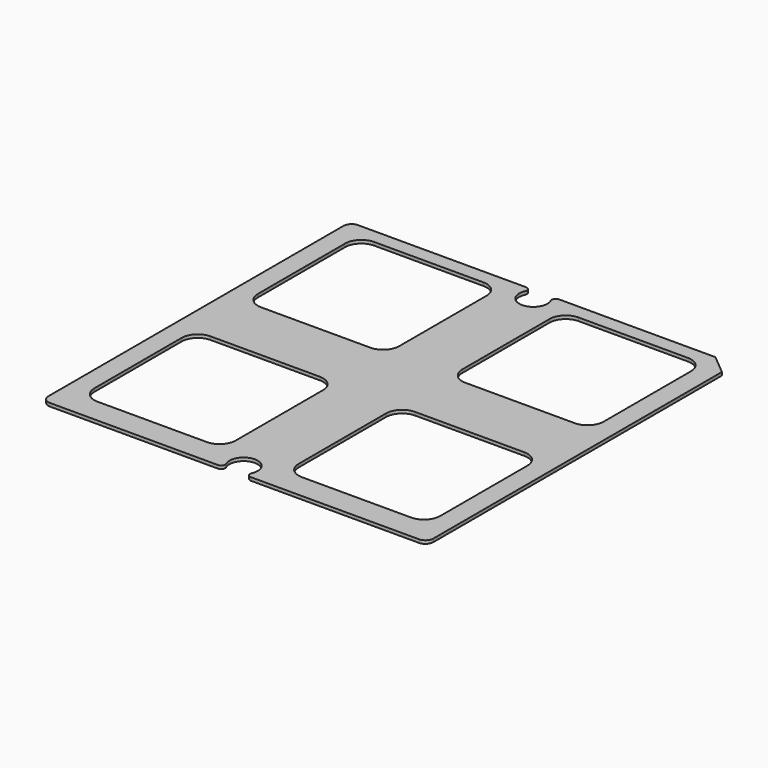
from build123d import *

# Parameters (mm, degrees)
F1_DEPTH = 0.2


with BuildPart() as f1:
    # F0 (on Top) → F1 (new body, symmetric)
    with BuildSketch(Plane.XY):
        with BuildLine():
            ThreePointArc((-23.925, -22.925), (-23.632107, -23.632107), (-22.925, -23.925))
            Line((-22.925, -23.925), (-2.051067, -23.925))
            ThreePointArc((-2.051067, -23.925), (-1.63108, -23.696314), (-1.595274, -23.219444))
            ThreePointArc((-1.595274, -23.219444), (0, -20.75), (1.595274, -23.219444))
            ThreePointArc((1.595274, -23.219444), (1.63108, -23.696314), (2.051067, -23.925))
            Line((2.051067, -23.925), (22.925, -23.925))
            ThreePointArc((22.925, -23.925), (23.632107, -23.632107), (23.925, -22.925))
            Line((23.925, -22.925), (23.925, 21.885272))
            Line((23.925, 21.885272), (21.485, 23.925))
            Line((21.485, 23.925), (2.051067, 23.925))
            ThreePointArc((2.051067, 23.925), (1.63108, 23.696314), (1.595274, 23.219444))
            ThreePointArc((1.595274, 23.219444), (0, 20.75), (-1.595274, 23.219444))
            ThreePointArc((-1.595274, 23.219444), (-1.63108, 23.696314), (-2.051067, 23.925))
            Line((-2.051067, 23.925), (-22.925, 23.925))
            ThreePointArc((-22.925, 23.925), (-23.632107, 23.632107), (-23.925, 22.925))
            Line((-23.925, 22.925), (-23.925, -22.925))
        make_face()
        with BuildLine():
            Line((-5.915, -20.834051), (-19.485, -20.834051))
            ThreePointArc((-19.485, -20.834051), (-20.899214, -20.248265), (-21.485, -18.834051))
            Line((-21.485, -18.834051), (-21.485, -5.264051))
            ThreePointArc((-21.485, -5.264051), (-20.899214, -3.849838), (-19.485, -3.264051))
            Line((-19.485, -3.264051), (-5.915, -3.264051))
            ThreePointArc((-5.915, -3.264051), (-4.500786, -3.849838), (-3.915, -5.264051))
            Line((-3.915, -5.264051), (-3.915, -18.834051))
            ThreePointArc((-3.915, -18.834051), (-4.500786, -20.248265), (-5.915, -20.834051))
        make_face(mode=Mode.SUBTRACT)
        with BuildLine():
            Line((5.915, -3.264051), (19.485, -3.264051))
            ThreePointArc((19.485, -3.264051), (20.899214, -3.849838), (21.485, -5.264051))
            Line((21.485, -5.264051), (21.485, -18.834051))
            ThreePointArc((21.485, -18.834051), (20.899214, -20.248265), (19.485, -20.834051))
            Line((19.485, -20.834051), (5.915, -20.834051))
            ThreePointArc((5.915, -20.834051), (4.500786, -20.248265), (3.915, -18.834051))
            Line((3.915, -18.834051), (3.915, -5.264051))
            ThreePointArc((3.915, -5.264051), (4.500786, -3.849838), (5.915, -3.264051))
        make_face(mode=Mode.SUBTRACT)
        with BuildLine():
            Line((-5.915, 4.565949), (-19.485, 4.565949))
            ThreePointArc((-19.485, 4.565949), (-20.899214, 5.151735), (-21.485, 6.565949))
            Line((-21.485, 6.565949), (-21.485, 20.135949))
            ThreePointArc((-21.485, 20.135949), (-20.899214, 21.550162), (-19.485, 22.135949))
            Line((-19.485, 22.135949), (-5.915, 22.135949))
            ThreePointArc((-5.915, 22.135949), (-4.500786, 21.550162), (-3.915, 20.135949))
            Line((-3.915, 20.135949), (-3.915, 6.565949))
            ThreePointArc((-3.915, 6.565949), (-4.500786, 5.151735), (-5.915, 4.565949))
        make_face(mode=Mode.SUBTRACT)
        with BuildLine():
            Line((5.915, 22.135949), (19.485, 22.135949))
            ThreePointArc((19.485, 22.135949), (20.899214, 21.550162), (21.485, 20.135949))
            Line((21.485, 20.135949), (21.485, 6.565949))
            ThreePointArc((21.485, 6.565949), (20.899214, 5.151735), (19.485, 4.565949))
            Line((19.485, 4.565949), (5.915, 4.565949))
            ThreePointArc((5.915, 4.565949), (4.500786, 5.151735), (3.915, 6.565949))
            Line((3.915, 6.565949), (3.915, 20.135949))
            ThreePointArc((3.915, 20.135949), (4.500786, 21.550162), (5.915, 22.135949))
        make_face(mode=Mode.SUBTRACT)
    extrude(amount=F1_DEPTH, both=True)


solid = f1.part
